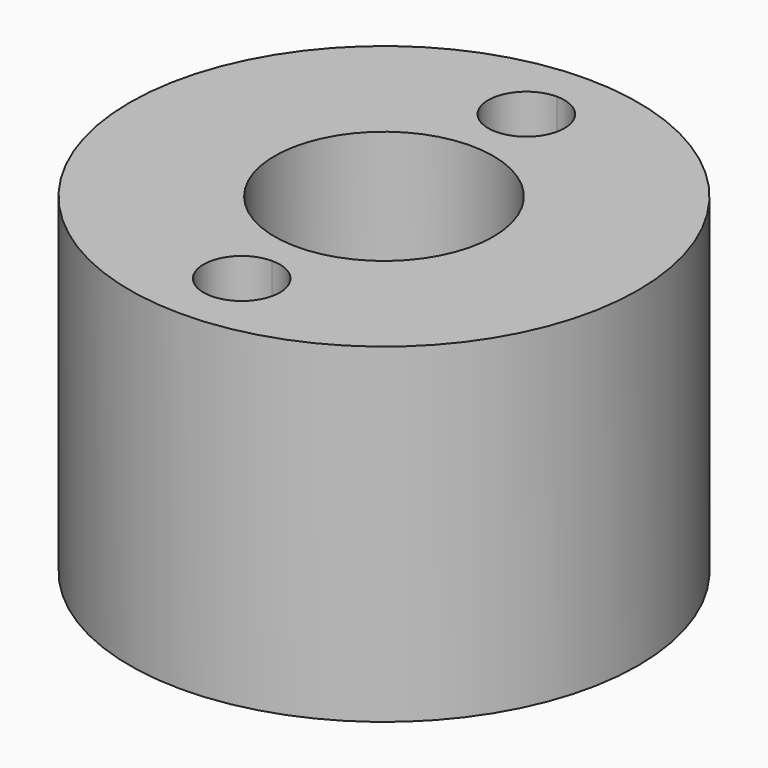
from build123d import *

# Parameters (mm, degrees)
F0_R     = 10
F0_R_2   = 4.3
F1_DEPTH = 13
F2_R     = 4.3
F3_DEPTH = 3
F6_DEPTH = 25.4
F7_R     = 1.5
F8_DEPTH = 25.4


with BuildPart() as f1:
    # F0 (on Top) → F1 (new body)
    with BuildSketch(Plane.XY):
        Circle(F0_R)
        Circle(F0_R_2, mode=Mode.SUBTRACT)
    extrude(amount=F1_DEPTH)

    # F2 (on Top) → F3 (join)
    with BuildSketch(Plane.XY):
        Circle(F2_R)
    extrude(amount=F3_DEPTH)

    # F5 (on offset) → F6 (cut)
    with BuildSketch(Plane.XY.offset(13)):
        with BuildLine():
            ThreePointArc((0, -5.5), (-1.5, -7), (0, -8.5))
            Line((0, -8.5), (0, -5.5))
        make_face()
        with BuildLine():
            ThreePointArc((0, 8.5), (-1.5, 7), (0, 5.5))
            Line((0, 5.5), (0, 8.5))
        make_face()
        with BuildLine():
            Line((0, 8.5), (0, 5.5))
            ThreePointArc((0, 5.5), (1.06066, 5.93934), (1.5, 7))
            ThreePointArc((1.5, 7), (1.06066, 8.06066), (0, 8.5))
        make_face()
        with BuildLine():
            Line((0, -5.5), (0, -8.5))
            ThreePointArc((0, -8.5), (1.06066, -8.06066), (1.5, -7))
            ThreePointArc((1.5, -7), (1.06066, -5.93934), (0, -5.5))
        make_face()
    extrude(amount=-F6_DEPTH, mode=Mode.SUBTRACT)

    # F7 (on Right) → F8 (cut)
    with BuildSketch(Plane.YZ):
        with Locations((0, 5)):
            Circle(F7_R)
    extrude(amount=-F8_DEPTH, mode=Mode.SUBTRACT)


solid = f1.part
